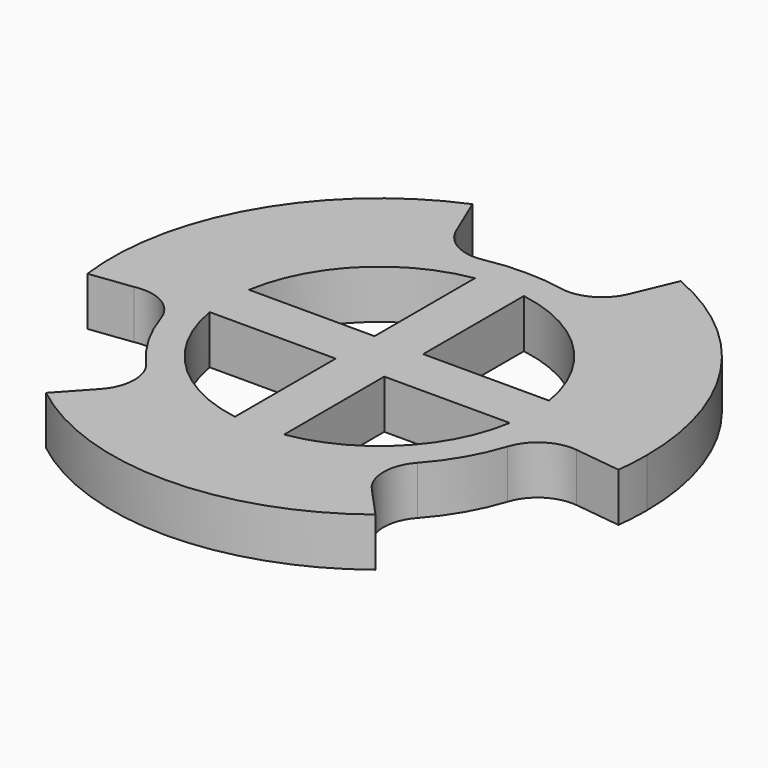
from build123d import *

# Parameters (mm, degrees)
F1_DEPTH = 2
F3_DEPTH = 25


with BuildPart() as f1:
    # F0 (on Top) → F1 (new body)
    with BuildSketch(Plane.XY):
        with BuildLine():
            Line((4.281331, 10.132631), (3.535193, 8.366744))
            ThreePointArc((3.535193, 8.366744), (2.744845, 7.502753), (1.586626, 7.330533))
            ThreePointArc((1.586626, 7.330533), (0, 7.484539), (-1.586626, 7.330533))
            ThreePointArc((-1.586626, 7.330533), (-2.744845, 7.502753), (-3.535193, 8.366744))
            Line((-3.535193, 8.366744), (-4.281331, 10.132631))
            ThreePointArc((-4.281331, 10.132631), (-9.528654, 5.495885), (-10.914603, -1.368004))
            Line((-10.914603, -1.368004), (-9.178189, -1.150367))
            ThreePointArc((-9.178189, -1.150367), (-7.929849, -1.338514), (-7.132924, -2.317627))
            ThreePointArc((-7.132924, -2.317627), (-6.495191, -3.75), (-5.573586, -5.01848))
            ThreePointArc((-5.573586, -5.01848), (-5.124111, -6.198194), (-5.585341, -7.373362))
            Line((-5.585341, -7.373362), (-6.773725, -8.666986))
            ThreePointArc((-6.773725, -8.666986), (0, -11), (6.773725, -8.666986))
            Line((6.773725, -8.666986), (5.585341, -7.373362))
            ThreePointArc((5.585341, -7.373362), (5.124111, -6.198194), (5.573586, -5.01848))
            ThreePointArc((5.573586, -5.01848), (6.495191, -3.75), (7.132924, -2.317627))
            ThreePointArc((7.132924, -2.317627), (7.858216, -1.381697), (9.01341, -1.121806))
            Line((9.01341, -1.121806), (10.915781, -1.358574))
            ThreePointArc((10.915781, -1.358574), (10.978925, -0.680591), (11, 0))
            ThreePointArc((11, 0), (9.167733, 6.078872), (4.281331, 10.132631))
        make_face()
    extrude(amount=F1_DEPTH)

    # F2 (on face) → F3 (cut)
    with BuildSketch(Plane.XY.offset(2)):
        with BuildLine():
            ThreePointArc((1.572898, 7.333212), (0, 7.5), (-1.572898, 7.333212))
            ThreePointArc((-1.572898, 7.333212), (0, 7.484539), (1.572898, 7.333212))
        make_face()
        with BuildLine():
            Line((-1, 1), (-1, 6.161259))
            ThreePointArc((-1, 6.161259), (-4.413678, 4.413678), (-6.161259, 1))
            Line((-6.161259, 1), (-1, 1))
        make_face()
        with BuildLine():
            ThreePointArc((6.179031, 1), (4.426083, 4.426083), (1, 6.179031))
            Line((1, 6.179031), (1, 1))
            Line((1, 1), (6.179031, 1))
        make_face()
        with BuildLine():
            ThreePointArc((1.008042, -6.158178), (4.415323, -4.409561), (6.159489, -1))
            Line((6.159489, -1), (1, -1))
            Line((1, -1), (1.008042, -6.158178))
        make_face()
        with BuildLine():
            Line((-1, -1), (-6.177082, -1))
            ThreePointArc((-6.177082, -1), (-4.424723, -4.424723), (-1, -6.177082))
            Line((-1, -6.177082), (-1, -1))
        make_face()
    extrude(amount=-F3_DEPTH, mode=Mode.SUBTRACT)


solid = f1.part
